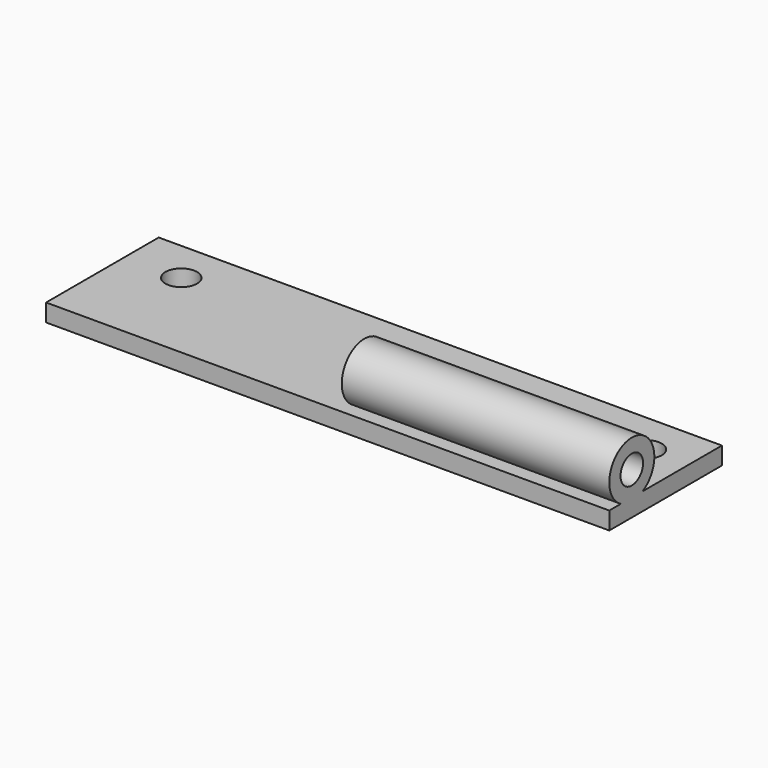
from build123d import *

# Parameters (mm, degrees)
BOX_W             = 80
BOX_H             = 20
BOX_DEPTH         = 2.5
CYLINDER_R        = 4
CYLINDER_DEPTH    = 38
CYLINDER001_R     = 2
CYLINDER001_DEPTH = 38
CYLINDER002_R     = 2.25
CYLINDER002_DEPTH = 2.5
CYLINDER003_R     = 2.25
CYLINDER003_DEPTH = 2.5


with BuildPart() as part:
    # Box → Box (join)
    with BuildSketch(Plane.XY):
        with Locations((40, 10)):
            Rectangle(BOX_W, BOX_H)
    extrude(amount=BOX_DEPTH)

    # Cylinder → Cylinder (join)
    with BuildSketch(Plane(origin=(42, 4, 6), x_dir=(0, 1, 0), z_dir=(1, 0, 0))):
        Circle(CYLINDER_R)
    extrude(amount=CYLINDER_DEPTH)

    # Cylinder001 → Cylinder001 (cut)
    with BuildSketch(Plane(origin=(42, 4, 6), x_dir=(0, 1, 0), z_dir=(1, 0, 0))):
        Circle(CYLINDER001_R)
    extrude(amount=CYLINDER001_DEPTH, mode=Mode.SUBTRACT)

    # Cylinder002 → Cylinder002 (cut)
    with BuildSketch(Plane(origin=(8, 14, 0), x_dir=(0, -1, 0), z_dir=(0, 0, 1))):
        Circle(CYLINDER002_R)
    extrude(amount=CYLINDER002_DEPTH, mode=Mode.SUBTRACT)

    # Cylinder003 → Cylinder003 (cut)
    with BuildSketch(Plane(origin=(74, 14, 0), x_dir=(1, 0, 0), z_dir=(0, 0, 1))):
        Circle(CYLINDER003_R)
    extrude(amount=CYLINDER003_DEPTH, mode=Mode.SUBTRACT)


solid = part.part
